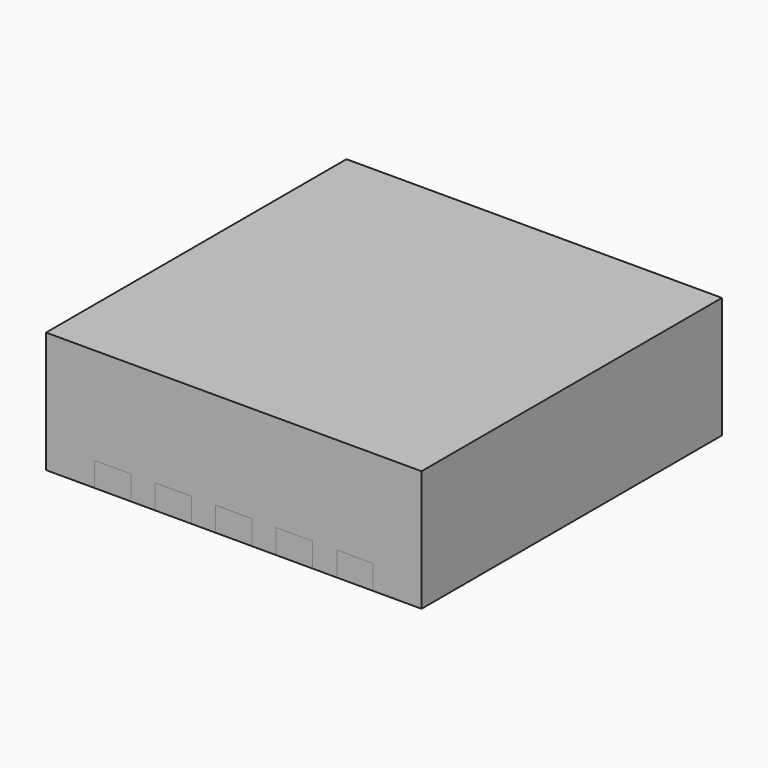
from build123d import *

# Parameters (mm, degrees)
F0_W     = 3.1
F0_H     = 3.1
F1_DEPTH = 1
F2_W     = 0.3
F2_H     = 0.4
F3_DEPTH = 0.2
F4_DEPTH = 0.2


with BuildPart() as f1:
    # F0 (on Top) → F1 (new body)
    with BuildSketch(Plane.XY):
        Rectangle(F0_W, F0_H)
    extrude(amount=F1_DEPTH)

    # F2 (on face) → F3 (cut)
    with BuildSketch(Plane(origin=(0, 0, 0), x_dir=(1, 0, 0), z_dir=(0, 0, -1))):
        with Locations((0, 1.35)):
            Rectangle(F2_W, F2_H)
        with Locations((0.5, 1.35)):
            Rectangle(F2_W, F2_H)
        with Locations((1, 1.35)):
            Rectangle(F2_W, F2_H)
        with Locations((-0.5, 1.35)):
            Rectangle(F2_W, F2_H)
        with Locations((-1, 1.35)):
            Rectangle(F2_W, F2_H)
        with Locations((0, -1.35)):
            Rectangle(F2_W, F2_H)
        with Locations((0.5, -1.35)):
            Rectangle(F2_W, F2_H)
        with Locations((-0.5, -1.35)):
            Rectangle(F2_W, F2_H)
        with Locations((1, -1.35)):
            Rectangle(F2_W, F2_H)
        with Locations((-1, -1.35)):
            Rectangle(F2_W, F2_H)
    extrude(amount=-F3_DEPTH, mode=Mode.SUBTRACT)


with BuildPart() as f4:
    # F2 (on face) → F4 (new body)
    with BuildSketch(Plane(origin=(0, 0, 0), x_dir=(1, 0, 0), z_dir=(0, 0, -1))):
        with Locations((0, 1.35)):
            Rectangle(F2_W, F2_H)
        with Locations((0.5, 1.35)):
            Rectangle(F2_W, F2_H)
        with Locations((1, 1.35)):
            Rectangle(F2_W, F2_H)
        with Locations((-0.5, 1.35)):
            Rectangle(F2_W, F2_H)
        with Locations((-1, 1.35)):
            Rectangle(F2_W, F2_H)
        with Locations((0, -1.35)):
            Rectangle(F2_W, F2_H)
        with Locations((0.5, -1.35)):
            Rectangle(F2_W, F2_H)
        with Locations((-0.5, -1.35)):
            Rectangle(F2_W, F2_H)
        with Locations((1, -1.35)):
            Rectangle(F2_W, F2_H)
        with Locations((-1, -1.35)):
            Rectangle(F2_W, F2_H)
    extrude(amount=-F4_DEPTH)


solid = Compound([f1.part, f4.part])
